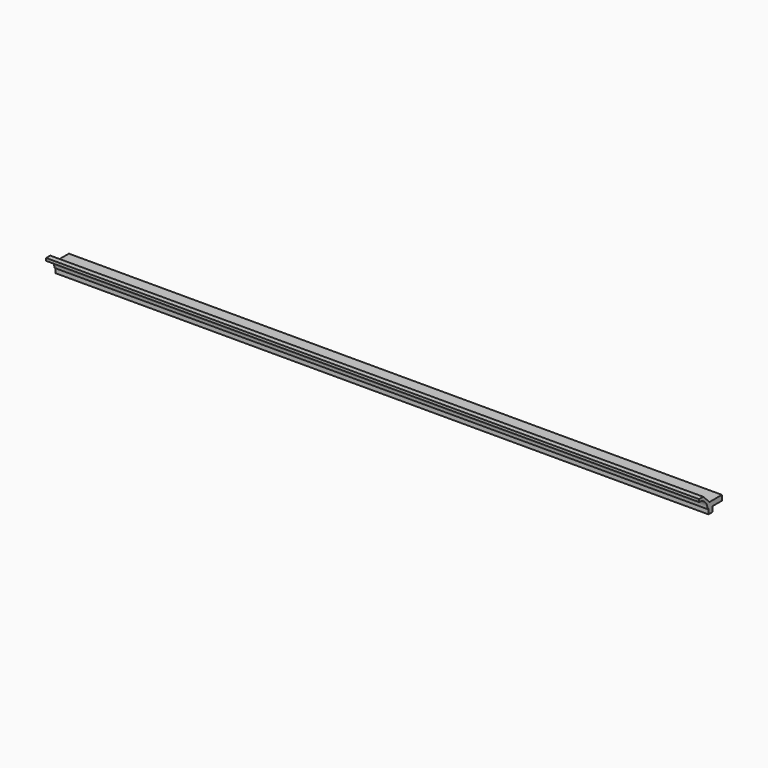
from build123d import *

# Parameters (mm, degrees)
F1_DEPTH = 1600.2


with BuildPart() as f1:
    # F0 (on Right) → F1 (new body)
    with BuildSketch(Plane.YZ):
        with BuildLine():
            Line((-32.006811, 24.236047), (-32.006811, 17.886047))
            ThreePointArc((-32.006811, 17.886047), (-13.852516, 10.640341), (-6.606811, -7.513953))
            Line((-6.606811, -7.513953), (-3.431811, -7.513953))
            Line((-3.431811, -7.513953), (-0.256811, -7.513953))
            Line((-0.256811, -7.513953), (-0.256811, 5.186047))
            Line((-0.256811, 5.186047), (-19.306811, 24.236047))
            Line((-19.306811, 24.236047), (-32.006811, 24.236047))
        make_face()
        Polygon((37.843189, 5.186047), (-0.256811, 5.186047), (-0.256811, -7.513953), (9.268189, -7.513953), (37.843189, -7.513953), align=None)
        Polygon((-0.256811, -7.513953), (-3.431811, -7.513953), (-3.431811, -20.213953), (9.268189, -20.213953), (9.268189, -7.513953), align=None)
    extrude(amount=F1_DEPTH)


solid = f1.part
